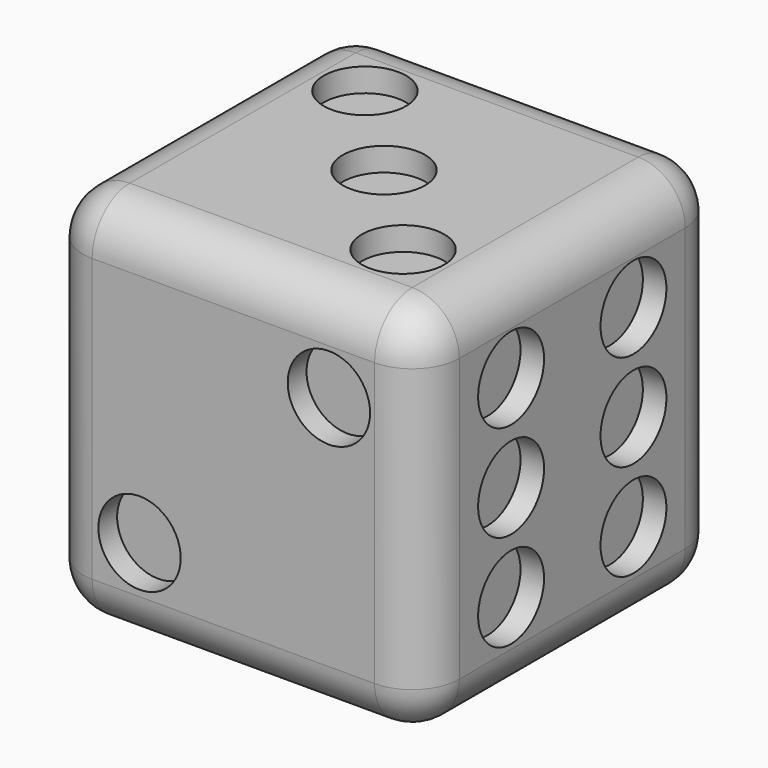
from build123d import *

# Parameters (mm, degrees)
F0_W      = 16
F0_H      = 16
F1_DEPTH  = 8
F2_R      = 2
F3_R      = 1.75
F4_DEPTH  = 1
F5_R      = 1.75
F6_DEPTH  = 1
F7_R      = 1.75
F8_DEPTH  = 1
F9_R      = 1.75
F10_DEPTH = 1
F11_R     = 1.75
F12_DEPTH = 1
F13_R     = 1.75
F14_DEPTH = 1


with BuildPart() as f1:
    # F0 (on Right) → F1 (new body, symmetric)
    with BuildSketch(Plane.YZ):
        Rectangle(F0_W, F0_H)
    extrude(amount=F1_DEPTH, both=True)

    # F2
    f2_edges = [f1.edges().sort_by_distance(p)[0] for p in [
        (8, 0, 8),
        (0, -8, 8),
        (-8, 0, 8),
        (0, 8, 8),
        (-8, 8, 0),
        (-8, 0, -8),
        (-8, -8, 0),
        (0, 8, -8),
        (0, -8, -8),
        (8, 0, -8),
        (8, 8, 0),
        (8, -8, 0),
    ]]
    fillet(f2_edges, radius=F2_R)

    # F3 (on face) → F4 (cut)
    with BuildSketch(Plane.YZ.offset(8)):
        with Locations((-3.25, 4.15)):
            Circle(F3_R)
        with Locations((-3.25, 0.05)):
            Circle(F3_R)
        with Locations((-3.25, -4.05)):
            Circle(F3_R)
        with Locations((3.25, -4.05)):
            Circle(F3_R)
        with Locations((3.25, 0.05)):
            Circle(F3_R)
        with Locations((3.25, 4.15)):
            Circle(F3_R)
    extrude(amount=-F4_DEPTH, mode=Mode.SUBTRACT)

    # F5 (on face) → F6 (cut)
    with BuildSketch(Plane.XY.offset(8)):
        with Locations((-1e-06, 1e-06)):
            Circle(F5_R)
        with Locations((-4.055456, 4.055456)):
            Circle(F5_R)
        with Locations((4.055456, -4.055456)):
            Circle(F5_R)
    extrude(amount=-F6_DEPTH, mode=Mode.SUBTRACT)

    # F7 (on face) → F8 (cut)
    with BuildSketch(Plane(origin=(0, 8, 0), x_dir=(-1, 0, 0), z_dir=(0, 1, 0))):
        Circle(F7_R)
        with Locations((-4.058793, 4.058793)):
            Circle(F7_R)
        with Locations((3.988082, -3.988082)):
            Circle(F7_R)
        with Locations((4.051722, 4.051722)):
            Circle(F7_R)
        with Locations((-4.058793, -4.058793)):
            Circle(F7_R)
    extrude(amount=-F8_DEPTH, mode=Mode.SUBTRACT)

    # F9 (on face) → F10 (cut)
    with BuildSketch(Plane(origin=(-8, 0, 0), x_dir=(0, -1, 0), z_dir=(-1, 0, 0))):
        Circle(F9_R)
    extrude(amount=-F10_DEPTH, mode=Mode.SUBTRACT)

    # F11 (on face) → F12 (cut)
    with BuildSketch(Plane(origin=(0, 0, -8), x_dir=(1, 0, 0), z_dir=(0, 0, -1))):
        with Locations((-3.988082, 3.988082)):
            Circle(F11_R)
        with Locations((-3.995153, -3.995153)):
            Circle(F11_R)
        with Locations((3.988082, 3.988082)):
            Circle(F11_R)
        with Locations((3.995153, -3.995153)):
            Circle(F11_R)
    extrude(amount=-F12_DEPTH, mode=Mode.SUBTRACT)

    # F13 (on face) → F14 (cut)
    with BuildSketch(Plane.XZ.offset(8)):
        with Locations((4.058793, 4.058793)):
            Circle(F13_R)
        with Locations((-3.988082, -3.988082)):
            Circle(F13_R)
    extrude(amount=-F14_DEPTH, mode=Mode.SUBTRACT)


solid = f1.part
